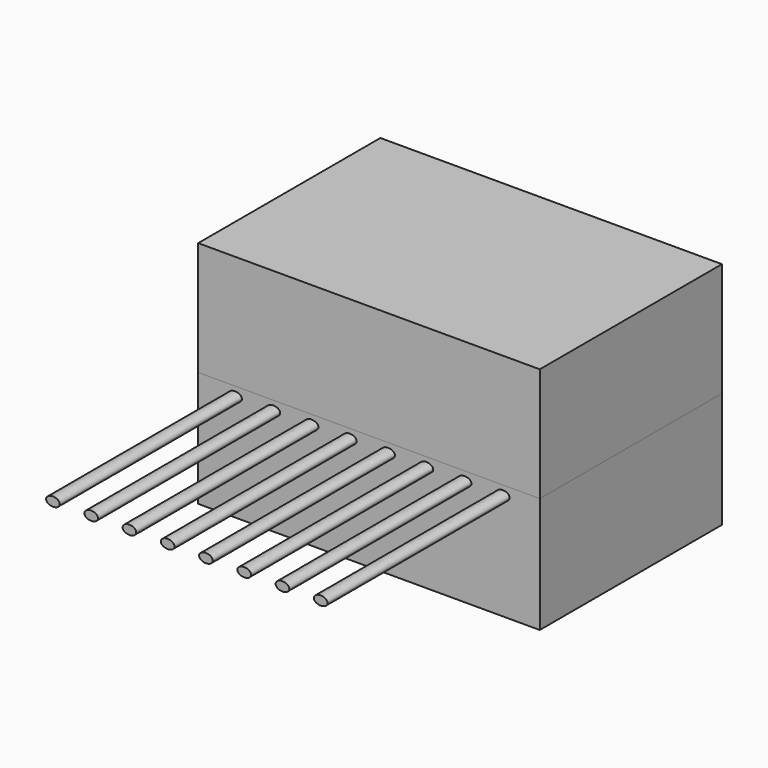
from build123d import *

# Parameters (mm, degrees)
F0_W     = 37.5
F0_H     = 12.7
F1_DEPTH = 25
F3_DEPTH = 25
F4_DEPTH = 12.5


with BuildPart() as f1:
    # F0 (on Front) → F1 (new body)
    with BuildSketch(Plane.XZ):
        Rectangle(F0_W, F0_H)
    extrude(amount=F1_DEPTH)


with BuildPart() as f3:
    # F2 (on face) → F3 (new body)
    with BuildSketch(Plane.XZ.offset(25)):
        with BuildLine():
            add(Edge.make_bspline(
                [(-13.95, 5.35), (-13.95, 6.2160254038), (-15.075, 5.7830127019), (-16.2, 5.35), (-15.075, 4.9169872981), (-13.95, 4.4839745962), (-13.95, 5.35)],
                knots=[0, 0, 0, 2.0943951024, 2.0943951024, 4.1887902048, 4.1887902048, 6.2831853072, 6.2831853072, 6.2831853072], degree=2, weights=[1, 0.5, 1, 0.5, 1, 0.5, 1]))
        make_face()
    extrude(amount=F3_DEPTH)


with BuildPart() as f3b:
    # F2 (on face) → F3, piece 2 (new body)
    with BuildSketch(Plane.XZ.offset(25)):
        with BuildLine():
            add(Edge.make_bspline(
                [(-9.75, 5.35), (-9.75, 6.2160254038), (-10.875, 5.7830127019), (-12, 5.35), (-10.875, 4.9169872981), (-9.75, 4.4839745962), (-9.75, 5.35)],
                knots=[0, 0, 0, 2.0943951024, 2.0943951024, 4.1887902048, 4.1887902048, 6.2831853072, 6.2831853072, 6.2831853072], degree=2, weights=[1, 0.5, 1, 0.5, 1, 0.5, 1]))
        make_face()
    extrude(amount=F3_DEPTH)


with BuildPart() as f3c:
    # F2 (on face) → F3, piece 3 (new body)
    with BuildSketch(Plane.XZ.offset(25)):
        with BuildLine():
            add(Edge.make_bspline(
                [(-5.55, 5.35), (-5.55, 6.2160254038), (-6.675, 5.7830127019), (-7.8, 5.35), (-6.675, 4.9169872981), (-5.55, 4.4839745962), (-5.55, 5.35)],
                knots=[0, 0, 0, 2.0943951024, 2.0943951024, 4.1887902048, 4.1887902048, 6.2831853072, 6.2831853072, 6.2831853072], degree=2, weights=[1, 0.5, 1, 0.5, 1, 0.5, 1]))
        make_face()
    extrude(amount=F3_DEPTH)


with BuildPart() as f3d:
    # F2 (on face) → F3, piece 4 (new body)
    with BuildSketch(Plane.XZ.offset(25)):
        with BuildLine():
            add(Edge.make_bspline(
                [(-1.35, 5.35), (-1.35, 6.2160254038), (-2.475, 5.7830127019), (-3.6, 5.35), (-2.475, 4.9169872981), (-1.35, 4.4839745962), (-1.35, 5.35)],
                knots=[0, 0, 0, 2.0943951024, 2.0943951024, 4.1887902048, 4.1887902048, 6.2831853072, 6.2831853072, 6.2831853072], degree=2, weights=[1, 0.5, 1, 0.5, 1, 0.5, 1]))
        make_face()
    extrude(amount=F3_DEPTH)


with BuildPart() as f3e:
    # F2 (on face) → F3, piece 5 (new body)
    with BuildSketch(Plane.XZ.offset(25)):
        with BuildLine():
            add(Edge.make_bspline(
                [(2.85, 5.35), (2.85, 6.2160254038), (1.725, 5.7830127019), (0.6, 5.35), (1.725, 4.9169872981), (2.85, 4.4839745962), (2.85, 5.35)],
                knots=[0, 0, 0, 2.0943951024, 2.0943951024, 4.1887902048, 4.1887902048, 6.2831853072, 6.2831853072, 6.2831853072], degree=2, weights=[1, 0.5, 1, 0.5, 1, 0.5, 1]))
        make_face()
    extrude(amount=F3_DEPTH)


with BuildPart() as f3f:
    # F2 (on face) → F3, piece 6 (new body)
    with BuildSketch(Plane.XZ.offset(25)):
        with BuildLine():
            add(Edge.make_bspline(
                [(7.05, 5.35), (7.05, 6.2160254038), (5.925, 5.7830127019), (4.8, 5.35), (5.925, 4.9169872981), (7.05, 4.4839745962), (7.05, 5.35)],
                knots=[0, 0, 0, 2.0943951024, 2.0943951024, 4.1887902048, 4.1887902048, 6.2831853072, 6.2831853072, 6.2831853072], degree=2, weights=[1, 0.5, 1, 0.5, 1, 0.5, 1]))
        make_face()
    extrude(amount=F3_DEPTH)


with BuildPart() as f3g:
    # F2 (on face) → F3, piece 7 (new body)
    with BuildSketch(Plane.XZ.offset(25)):
        with BuildLine():
            add(Edge.make_bspline(
                [(11.25, 5.35), (11.25, 6.2160254038), (10.125, 5.7830127019), (9, 5.35), (10.125, 4.9169872981), (11.25, 4.4839745962), (11.25, 5.35)],
                knots=[0, 0, 0, 2.0943951024, 2.0943951024, 4.1887902048, 4.1887902048, 6.2831853072, 6.2831853072, 6.2831853072], degree=2, weights=[1, 0.5, 1, 0.5, 1, 0.5, 1]))
        make_face()
    extrude(amount=F3_DEPTH)


with BuildPart() as f3h:
    # F2 (on face) → F3, piece 8 (new body)
    with BuildSketch(Plane.XZ.offset(25)):
        with BuildLine():
            add(Edge.make_bspline(
                [(15.45, 5.35), (15.45, 6.2160254038), (14.325, 5.7830127019), (13.2, 5.35), (14.325, 4.9169872981), (15.45, 4.4839745962), (15.45, 5.35)],
                knots=[0, 0, 0, 2.0943951024, 2.0943951024, 4.1887902048, 4.1887902048, 6.2831853072, 6.2831853072, 6.2831853072], degree=2, weights=[1, 0.5, 1, 0.5, 1, 0.5, 1]))
        make_face()
    extrude(amount=F3_DEPTH)


with BuildPart() as f4:
    # F4 (new): a face of the model
    f4_faces = [f1.part.faces().sort_by_distance(p)[0] for p in [
        (0, -12.5, 6.35),
    ]]
    extrude(f4_faces, amount=F4_DEPTH)


solid = Compound([f1.part, f3.part, f3b.part, f3c.part, f3d.part, f3e.part, f3f.part, f3g.part, f3h.part, f4.part])
